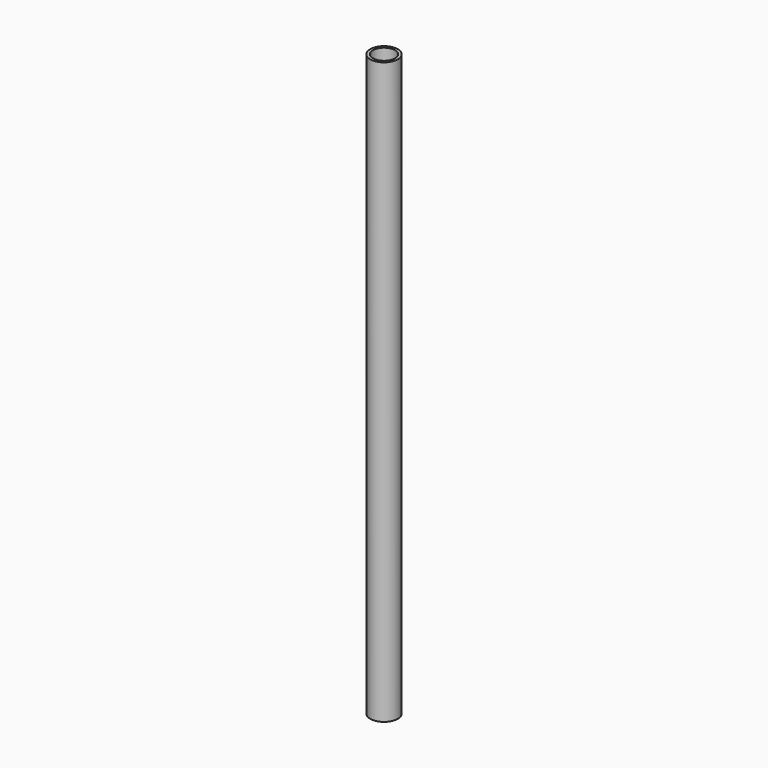
from build123d import *

# Parameters (mm, degrees)
SKETCH_R   = 5
SKETCH_R_2 = 4
PAD_DEPTH  = 210


with BuildPart() as part:
    # Sketch → Pad (new body)
    with BuildSketch(Plane.XY):
        Circle(SKETCH_R)
        Circle(SKETCH_R_2, mode=Mode.SUBTRACT)
    extrude(amount=PAD_DEPTH)


solid = part.part
